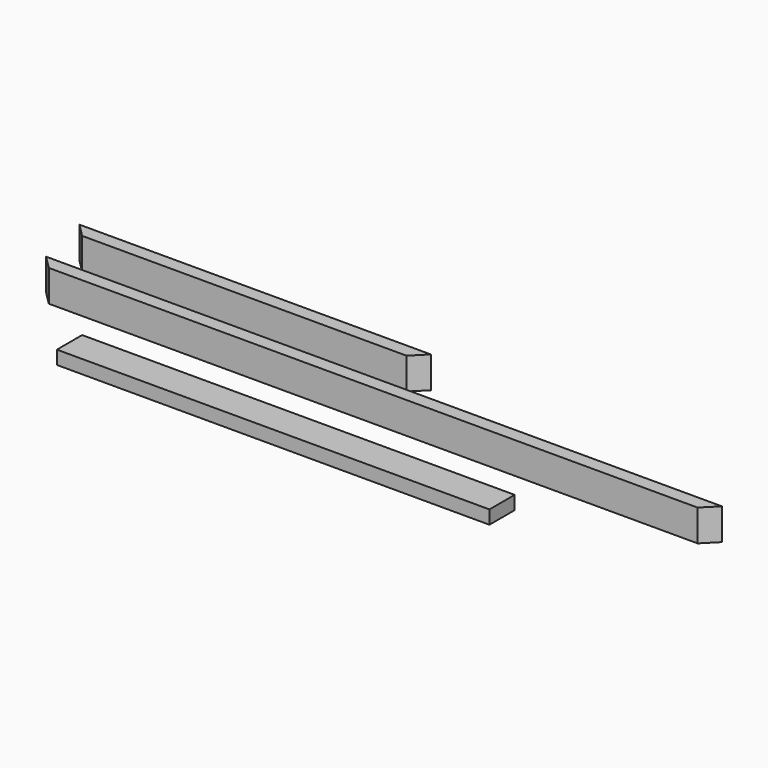
from build123d import *

# Parameters (mm, degrees)
F1_DEPTH = 88.9
F3_DEPTH = 88.9
F4_W     = 1219.2
F4_H     = 38.1
F5_DEPTH = 88.9


with BuildPart() as f1:
    # F0 (on Top) → F1 (new body)
    with BuildSketch(Plane.XY):
        Polygon((-38.1, 38.1), (0, 0), (914.4, 0), (952.5, 38.1), align=None)
    extrude(amount=F1_DEPTH)


with BuildPart() as f3:
    # F2 (on Top) → F3 (new body)
    with BuildSketch(Plane.XY):
        Polygon((0, -127), (38.1, -165.1), (1866.9, -165.1), (1905, -127), align=None)
    extrude(amount=F3_DEPTH)


with BuildPart() as f5:
    # F4 (on Front) → F5 (new body)
    with BuildSketch(Plane.XZ):
        with Locations((609.6, -176.338538)):
            Rectangle(F4_W, F4_H)
    extrude(amount=F5_DEPTH)


solid = Compound([f1.part, f3.part, f5.part])
